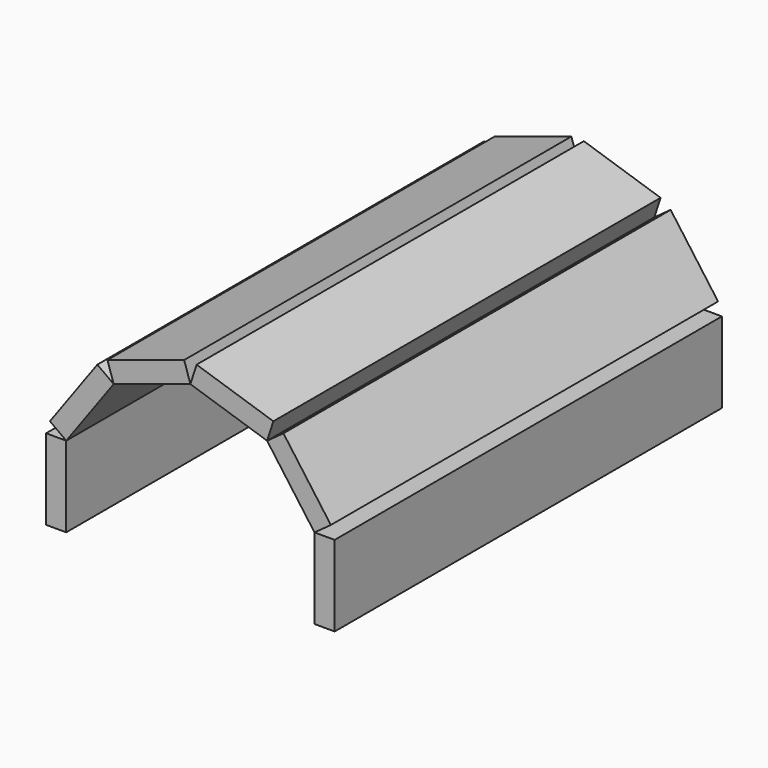
from build123d import *

# Parameters (mm, degrees)
F0_W     = 6.35
F0_H     = 25.4
F1_DEPTH = 152.4


with BuildPart() as f1:
    # F0 (on Front) → F1 (new body)
    with BuildSketch(Plane.XZ):
        with Locations((-42.261581, 0)):
            Rectangle(F0_W, F0_H)
        Polygon((-44.223839, 16.432436), (-39.086581, 12.7), (-24.156836, 33.249032), (-29.294093, 36.981468), align=None)
        Polygon((-26.119093, 39.288241), (-24.156836, 33.249032), (0, 41.098063), (-1.962258, 47.137272), align=None)
        Polygon((1.962258, 47.137272), (0, 41.098063), (24.156836, 33.249032), (26.119093, 39.288241), align=None)
        Polygon((24.156836, 33.249032), (39.086581, 12.7), (44.223839, 16.432436), (29.294093, 36.981468), align=None)
        with Locations((42.261581, 0)):
            Rectangle(F0_W, F0_H)
    extrude(amount=F1_DEPTH)


solid = f1.part
